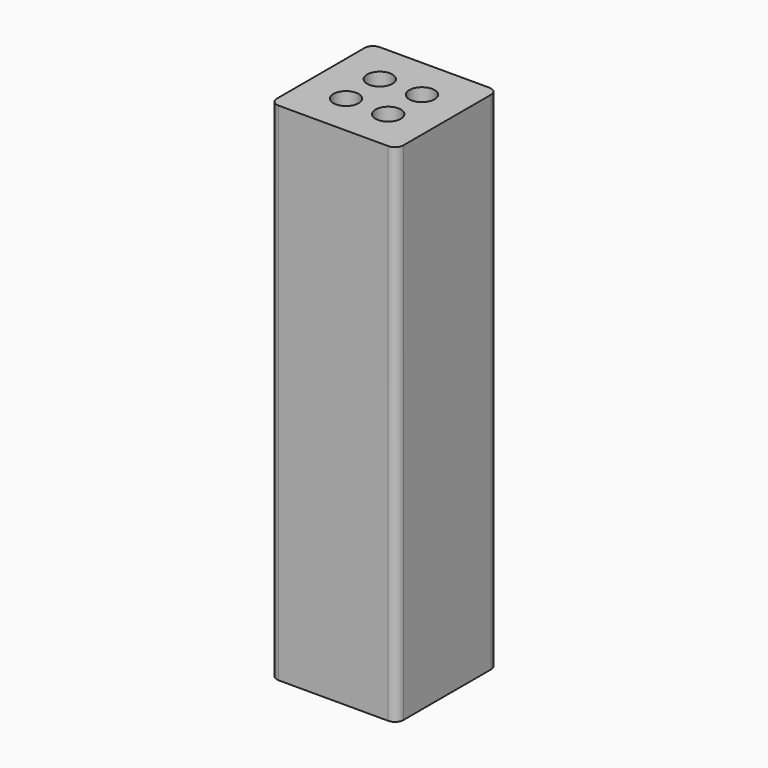
from build123d import *

# Parameters (mm, degrees)
F0_W     = 150
F0_H     = 150
F1_DEPTH = 600
F2_R     = 10
F3_R     = 15
F4_DEPTH = 50


with BuildPart() as f1:
    # F0 (on Top) → F1 (new body)
    with BuildSketch(Plane.XY):
        with Locations((75, 75)):
            Rectangle(F0_W, F0_H)
    extrude(amount=F1_DEPTH)

    # F2
    f2_edges = [f1.edges().sort_by_distance(p)[0] for p in [
        (0, 150, 300),
        (150, 150, 300),
        (150, 0, 300),
        (0, 0, 300),
    ]]
    fillet(f2_edges, radius=F2_R)

    # F3 (on face) → F4 (cut)
    with BuildSketch(Plane.XY.offset(600)):
        with Locations((50, 100)):
            Circle(F3_R)
        with Locations((100, 100)):
            Circle(F3_R)
        with Locations((100, 50)):
            Circle(F3_R)
        with Locations((50, 50)):
            Circle(F3_R)
    extrude(amount=-F4_DEPTH, mode=Mode.SUBTRACT)


solid = f1.part
